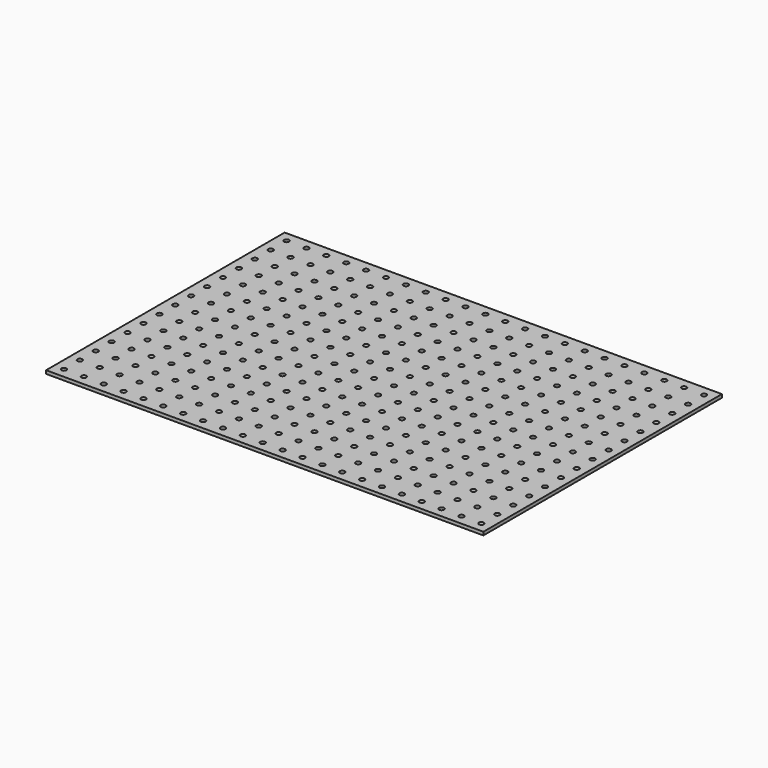
from build123d import *

# Parameters (mm, degrees)
F0_W     = 558.8
F0_H     = 381
F0_R     = 3.175
F1_DEPTH = 4.191


with BuildPart() as f1:
    # F0 (on Top) → F1 (new body)
    with BuildSketch(Plane.XY):
        Rectangle(F0_W, F0_H)
        with Locations((-266.7, -177.8)):
            Circle(F0_R, mode=Mode.SUBTRACT)
        with Locations((-241.3, -177.8)):
            Circle(F0_R, mode=Mode.SUBTRACT)
        with Locations((-215.9, -177.8)):
            Circle(F0_R, mode=Mode.SUBTRACT)
        with Locations((-266.7, -152.4)):
            Circle(F0_R, mode=Mode.SUBTRACT)
        with Locations((-241.3, -152.4)):
            Circle(F0_R, mode=Mode.SUBTRACT)
        with Locations((-215.9, -152.4)):
            Circle(F0_R, mode=Mode.SUBTRACT)
        with Locations((-190.5, -177.8)):
            Circle(F0_R, mode=Mode.SUBTRACT)
        with Locations((-165.1, -177.8)):
            Circle(F0_R, mode=Mode.SUBTRACT)
        with Locations((-190.5, -152.4)):
            Circle(F0_R, mode=Mode.SUBTRACT)
        with Locations((-165.1, -152.4)):
            Circle(F0_R, mode=Mode.SUBTRACT)
        with Locations((-266.7, -127)):
            Circle(F0_R, mode=Mode.SUBTRACT)
        with Locations((-241.3, -127)):
            Circle(F0_R, mode=Mode.SUBTRACT)
        with Locations((-215.9, -127)):
            Circle(F0_R, mode=Mode.SUBTRACT)
        with Locations((-266.7, -101.6)):
            Circle(F0_R, mode=Mode.SUBTRACT)
        with Locations((-241.3, -101.6)):
            Circle(F0_R, mode=Mode.SUBTRACT)
        with Locations((-215.9, -101.6)):
            Circle(F0_R, mode=Mode.SUBTRACT)
        with Locations((-190.5, -127)):
            Circle(F0_R, mode=Mode.SUBTRACT)
        with Locations((-165.1, -127)):
            Circle(F0_R, mode=Mode.SUBTRACT)
        with Locations((-190.5, -101.6)):
            Circle(F0_R, mode=Mode.SUBTRACT)
        with Locations((-165.1, -101.6)):
            Circle(F0_R, mode=Mode.SUBTRACT)
        with Locations((-139.7, -177.8)):
            Circle(F0_R, mode=Mode.SUBTRACT)
        with Locations((-114.3, -177.8)):
            Circle(F0_R, mode=Mode.SUBTRACT)
        with Locations((-88.9, -177.8)):
            Circle(F0_R, mode=Mode.SUBTRACT)
        with Locations((-139.7, -152.4)):
            Circle(F0_R, mode=Mode.SUBTRACT)
        with Locations((-114.3, -152.4)):
            Circle(F0_R, mode=Mode.SUBTRACT)
        with Locations((-88.9, -152.4)):
            Circle(F0_R, mode=Mode.SUBTRACT)
        with Locations((-63.5, -177.8)):
            Circle(F0_R, mode=Mode.SUBTRACT)
        with Locations((-38.1, -177.8)):
            Circle(F0_R, mode=Mode.SUBTRACT)
        with Locations((-12.7, -177.8)):
            Circle(F0_R, mode=Mode.SUBTRACT)
        with Locations((-63.5, -152.4)):
            Circle(F0_R, mode=Mode.SUBTRACT)
        with Locations((-38.1, -152.4)):
            Circle(F0_R, mode=Mode.SUBTRACT)
        with Locations((-12.7, -152.4)):
            Circle(F0_R, mode=Mode.SUBTRACT)
        with Locations((-139.7, -127)):
            Circle(F0_R, mode=Mode.SUBTRACT)
        with Locations((-114.3, -127)):
            Circle(F0_R, mode=Mode.SUBTRACT)
        with Locations((-88.9, -127)):
            Circle(F0_R, mode=Mode.SUBTRACT)
        with Locations((-139.7, -101.6)):
            Circle(F0_R, mode=Mode.SUBTRACT)
        with Locations((-114.3, -101.6)):
            Circle(F0_R, mode=Mode.SUBTRACT)
        with Locations((-88.9, -101.6)):
            Circle(F0_R, mode=Mode.SUBTRACT)
        with Locations((-63.5, -127)):
            Circle(F0_R, mode=Mode.SUBTRACT)
        with Locations((-38.1, -127)):
            Circle(F0_R, mode=Mode.SUBTRACT)
        with Locations((-12.7, -127)):
            Circle(F0_R, mode=Mode.SUBTRACT)
        with Locations((-63.5, -101.6)):
            Circle(F0_R, mode=Mode.SUBTRACT)
        with Locations((-38.1, -101.6)):
            Circle(F0_R, mode=Mode.SUBTRACT)
        with Locations((-12.7, -101.6)):
            Circle(F0_R, mode=Mode.SUBTRACT)
        with Locations((-266.7, -76.2)):
            Circle(F0_R, mode=Mode.SUBTRACT)
        with Locations((-241.3, -76.2)):
            Circle(F0_R, mode=Mode.SUBTRACT)
        with Locations((-215.9, -76.2)):
            Circle(F0_R, mode=Mode.SUBTRACT)
        with Locations((-266.7, -50.8)):
            Circle(F0_R, mode=Mode.SUBTRACT)
        with Locations((-241.3, -50.8)):
            Circle(F0_R, mode=Mode.SUBTRACT)
        with Locations((-215.9, -50.8)):
            Circle(F0_R, mode=Mode.SUBTRACT)
        with Locations((-190.5, -76.2)):
            Circle(F0_R, mode=Mode.SUBTRACT)
        with Locations((-165.1, -76.2)):
            Circle(F0_R, mode=Mode.SUBTRACT)
        with Locations((-190.5, -50.8)):
            Circle(F0_R, mode=Mode.SUBTRACT)
        with Locations((-165.1, -50.8)):
            Circle(F0_R, mode=Mode.SUBTRACT)
        with Locations((-266.7, -25.4)):
            Circle(F0_R, mode=Mode.SUBTRACT)
        with Locations((-241.3, -25.4)):
            Circle(F0_R, mode=Mode.SUBTRACT)
        with Locations((-215.9, -25.4)):
            Circle(F0_R, mode=Mode.SUBTRACT)
        with Locations((-190.5, -25.4)):
            Circle(F0_R, mode=Mode.SUBTRACT)
        with Locations((-165.1, -25.4)):
            Circle(F0_R, mode=Mode.SUBTRACT)
        with Locations((-139.7, -76.2)):
            Circle(F0_R, mode=Mode.SUBTRACT)
        with Locations((-114.3, -76.2)):
            Circle(F0_R, mode=Mode.SUBTRACT)
        with Locations((-88.9, -76.2)):
            Circle(F0_R, mode=Mode.SUBTRACT)
        with Locations((-139.7, -50.8)):
            Circle(F0_R, mode=Mode.SUBTRACT)
        with Locations((-114.3, -50.8)):
            Circle(F0_R, mode=Mode.SUBTRACT)
        with Locations((-88.9, -50.8)):
            Circle(F0_R, mode=Mode.SUBTRACT)
        with Locations((-63.5, -76.2)):
            Circle(F0_R, mode=Mode.SUBTRACT)
        with Locations((-38.1, -76.2)):
            Circle(F0_R, mode=Mode.SUBTRACT)
        with Locations((-12.7, -76.2)):
            Circle(F0_R, mode=Mode.SUBTRACT)
        with Locations((-63.5, -50.8)):
            Circle(F0_R, mode=Mode.SUBTRACT)
        with Locations((-38.1, -50.8)):
            Circle(F0_R, mode=Mode.SUBTRACT)
        with Locations((-12.7, -50.8)):
            Circle(F0_R, mode=Mode.SUBTRACT)
        with Locations((-139.7, -25.4)):
            Circle(F0_R, mode=Mode.SUBTRACT)
        with Locations((-114.3, -25.4)):
            Circle(F0_R, mode=Mode.SUBTRACT)
        with Locations((-88.9, -25.4)):
            Circle(F0_R, mode=Mode.SUBTRACT)
        with Locations((-63.5, -25.4)):
            Circle(F0_R, mode=Mode.SUBTRACT)
        with Locations((-38.1, -25.4)):
            Circle(F0_R, mode=Mode.SUBTRACT)
        with Locations((-12.7, -25.4)):
            Circle(F0_R, mode=Mode.SUBTRACT)
        with Locations((12.7, -177.8)):
            Circle(F0_R, mode=Mode.SUBTRACT)
        with Locations((38.1, -177.8)):
            Circle(F0_R, mode=Mode.SUBTRACT)
        with Locations((63.5, -177.8)):
            Circle(F0_R, mode=Mode.SUBTRACT)
        with Locations((12.7, -152.4)):
            Circle(F0_R, mode=Mode.SUBTRACT)
        with Locations((38.1, -152.4)):
            Circle(F0_R, mode=Mode.SUBTRACT)
        with Locations((63.5, -152.4)):
            Circle(F0_R, mode=Mode.SUBTRACT)
        with Locations((88.9, -177.8)):
            Circle(F0_R, mode=Mode.SUBTRACT)
        with Locations((114.3, -177.8)):
            Circle(F0_R, mode=Mode.SUBTRACT)
        with Locations((88.9, -152.4)):
            Circle(F0_R, mode=Mode.SUBTRACT)
        with Locations((114.3, -152.4)):
            Circle(F0_R, mode=Mode.SUBTRACT)
        with Locations((12.7, -127)):
            Circle(F0_R, mode=Mode.SUBTRACT)
        with Locations((38.1, -127)):
            Circle(F0_R, mode=Mode.SUBTRACT)
        with Locations((63.5, -127)):
            Circle(F0_R, mode=Mode.SUBTRACT)
        with Locations((12.7, -101.6)):
            Circle(F0_R, mode=Mode.SUBTRACT)
        with Locations((38.1, -101.6)):
            Circle(F0_R, mode=Mode.SUBTRACT)
        with Locations((63.5, -101.6)):
            Circle(F0_R, mode=Mode.SUBTRACT)
        with Locations((88.9, -127)):
            Circle(F0_R, mode=Mode.SUBTRACT)
        with Locations((114.3, -127)):
            Circle(F0_R, mode=Mode.SUBTRACT)
        with Locations((88.9, -101.6)):
            Circle(F0_R, mode=Mode.SUBTRACT)
        with Locations((114.3, -101.6)):
            Circle(F0_R, mode=Mode.SUBTRACT)
        with Locations((139.7, -177.8)):
            Circle(F0_R, mode=Mode.SUBTRACT)
        with Locations((165.1, -177.8)):
            Circle(F0_R, mode=Mode.SUBTRACT)
        with Locations((190.5, -177.8)):
            Circle(F0_R, mode=Mode.SUBTRACT)
        with Locations((139.7, -152.4)):
            Circle(F0_R, mode=Mode.SUBTRACT)
        with Locations((165.1, -152.4)):
            Circle(F0_R, mode=Mode.SUBTRACT)
        with Locations((190.5, -152.4)):
            Circle(F0_R, mode=Mode.SUBTRACT)
        with Locations((215.9, -177.8)):
            Circle(F0_R, mode=Mode.SUBTRACT)
        with Locations((241.3, -177.8)):
            Circle(F0_R, mode=Mode.SUBTRACT)
        with Locations((266.7, -177.8)):
            Circle(F0_R, mode=Mode.SUBTRACT)
        with Locations((215.9, -152.4)):
            Circle(F0_R, mode=Mode.SUBTRACT)
        with Locations((241.3, -152.4)):
            Circle(F0_R, mode=Mode.SUBTRACT)
        with Locations((266.7, -152.4)):
            Circle(F0_R, mode=Mode.SUBTRACT)
        with Locations((139.7, -127)):
            Circle(F0_R, mode=Mode.SUBTRACT)
        with Locations((165.1, -127)):
            Circle(F0_R, mode=Mode.SUBTRACT)
        with Locations((190.5, -127)):
            Circle(F0_R, mode=Mode.SUBTRACT)
        with Locations((139.7, -101.6)):
            Circle(F0_R, mode=Mode.SUBTRACT)
        with Locations((165.1, -101.6)):
            Circle(F0_R, mode=Mode.SUBTRACT)
        with Locations((190.5, -101.6)):
            Circle(F0_R, mode=Mode.SUBTRACT)
        with Locations((215.9, -127)):
            Circle(F0_R, mode=Mode.SUBTRACT)
        with Locations((241.3, -127)):
            Circle(F0_R, mode=Mode.SUBTRACT)
        with Locations((266.7, -127)):
            Circle(F0_R, mode=Mode.SUBTRACT)
        with Locations((215.9, -101.6)):
            Circle(F0_R, mode=Mode.SUBTRACT)
        with Locations((241.3, -101.6)):
            Circle(F0_R, mode=Mode.SUBTRACT)
        with Locations((266.7, -101.6)):
            Circle(F0_R, mode=Mode.SUBTRACT)
        with Locations((12.7, -76.2)):
            Circle(F0_R, mode=Mode.SUBTRACT)
        with Locations((38.1, -76.2)):
            Circle(F0_R, mode=Mode.SUBTRACT)
        with Locations((63.5, -76.2)):
            Circle(F0_R, mode=Mode.SUBTRACT)
        with Locations((12.7, -50.8)):
            Circle(F0_R, mode=Mode.SUBTRACT)
        with Locations((38.1, -50.8)):
            Circle(F0_R, mode=Mode.SUBTRACT)
        with Locations((63.5, -50.8)):
            Circle(F0_R, mode=Mode.SUBTRACT)
        with Locations((88.9, -76.2)):
            Circle(F0_R, mode=Mode.SUBTRACT)
        with Locations((114.3, -76.2)):
            Circle(F0_R, mode=Mode.SUBTRACT)
        with Locations((88.9, -50.8)):
            Circle(F0_R, mode=Mode.SUBTRACT)
        with Locations((114.3, -50.8)):
            Circle(F0_R, mode=Mode.SUBTRACT)
        with Locations((12.7, -25.4)):
            Circle(F0_R, mode=Mode.SUBTRACT)
        with Locations((38.1, -25.4)):
            Circle(F0_R, mode=Mode.SUBTRACT)
        with Locations((63.5, -25.4)):
            Circle(F0_R, mode=Mode.SUBTRACT)
        with Locations((88.9, -25.4)):
            Circle(F0_R, mode=Mode.SUBTRACT)
        with Locations((114.3, -25.4)):
            Circle(F0_R, mode=Mode.SUBTRACT)
        with Locations((139.7, -76.2)):
            Circle(F0_R, mode=Mode.SUBTRACT)
        with Locations((165.1, -76.2)):
            Circle(F0_R, mode=Mode.SUBTRACT)
        with Locations((190.5, -76.2)):
            Circle(F0_R, mode=Mode.SUBTRACT)
        with Locations((139.7, -50.8)):
            Circle(F0_R, mode=Mode.SUBTRACT)
        with Locations((165.1, -50.8)):
            Circle(F0_R, mode=Mode.SUBTRACT)
        with Locations((190.5, -50.8)):
            Circle(F0_R, mode=Mode.SUBTRACT)
        with Locations((215.9, -76.2)):
            Circle(F0_R, mode=Mode.SUBTRACT)
        with Locations((241.3, -76.2)):
            Circle(F0_R, mode=Mode.SUBTRACT)
        with Locations((266.7, -76.2)):
            Circle(F0_R, mode=Mode.SUBTRACT)
        with Locations((215.9, -50.8)):
            Circle(F0_R, mode=Mode.SUBTRACT)
        with Locations((241.3, -50.8)):
            Circle(F0_R, mode=Mode.SUBTRACT)
        with Locations((266.7, -50.8)):
            Circle(F0_R, mode=Mode.SUBTRACT)
        with Locations((139.7, -25.4)):
            Circle(F0_R, mode=Mode.SUBTRACT)
        with Locations((165.1, -25.4)):
            Circle(F0_R, mode=Mode.SUBTRACT)
        with Locations((190.5, -25.4)):
            Circle(F0_R, mode=Mode.SUBTRACT)
        with Locations((215.9, -25.4)):
            Circle(F0_R, mode=Mode.SUBTRACT)
        with Locations((241.3, -25.4)):
            Circle(F0_R, mode=Mode.SUBTRACT)
        with Locations((266.7, -25.4)):
            Circle(F0_R, mode=Mode.SUBTRACT)
        with Locations((-266.7, 0)):
            Circle(F0_R, mode=Mode.SUBTRACT)
        with Locations((-241.3, 0)):
            Circle(F0_R, mode=Mode.SUBTRACT)
        with Locations((-215.9, 0)):
            Circle(F0_R, mode=Mode.SUBTRACT)
        with Locations((-266.7, 25.4)):
            Circle(F0_R, mode=Mode.SUBTRACT)
        with Locations((-241.3, 25.4)):
            Circle(F0_R, mode=Mode.SUBTRACT)
        with Locations((-215.9, 25.4)):
            Circle(F0_R, mode=Mode.SUBTRACT)
        with Locations((-190.5, 0)):
            Circle(F0_R, mode=Mode.SUBTRACT)
        with Locations((-165.1, 0)):
            Circle(F0_R, mode=Mode.SUBTRACT)
        with Locations((-190.5, 25.4)):
            Circle(F0_R, mode=Mode.SUBTRACT)
        with Locations((-165.1, 25.4)):
            Circle(F0_R, mode=Mode.SUBTRACT)
        with Locations((-266.7, 50.8)):
            Circle(F0_R, mode=Mode.SUBTRACT)
        with Locations((-241.3, 50.8)):
            Circle(F0_R, mode=Mode.SUBTRACT)
        with Locations((-215.9, 50.8)):
            Circle(F0_R, mode=Mode.SUBTRACT)
        with Locations((-266.7, 76.2)):
            Circle(F0_R, mode=Mode.SUBTRACT)
        with Locations((-241.3, 76.2)):
            Circle(F0_R, mode=Mode.SUBTRACT)
        with Locations((-215.9, 76.2)):
            Circle(F0_R, mode=Mode.SUBTRACT)
        with Locations((-190.5, 50.8)):
            Circle(F0_R, mode=Mode.SUBTRACT)
        with Locations((-165.1, 50.8)):
            Circle(F0_R, mode=Mode.SUBTRACT)
        with Locations((-190.5, 76.2)):
            Circle(F0_R, mode=Mode.SUBTRACT)
        with Locations((-165.1, 76.2)):
            Circle(F0_R, mode=Mode.SUBTRACT)
        with Locations((-139.7, 0)):
            Circle(F0_R, mode=Mode.SUBTRACT)
        with Locations((-114.3, 0)):
            Circle(F0_R, mode=Mode.SUBTRACT)
        with Locations((-88.9, 0)):
            Circle(F0_R, mode=Mode.SUBTRACT)
        with Locations((-139.7, 25.4)):
            Circle(F0_R, mode=Mode.SUBTRACT)
        with Locations((-114.3, 25.4)):
            Circle(F0_R, mode=Mode.SUBTRACT)
        with Locations((-88.9, 25.4)):
            Circle(F0_R, mode=Mode.SUBTRACT)
        with Locations((-63.5, 0)):
            Circle(F0_R, mode=Mode.SUBTRACT)
        with Locations((-38.1, 0)):
            Circle(F0_R, mode=Mode.SUBTRACT)
        with Locations((-12.7, 0)):
            Circle(F0_R, mode=Mode.SUBTRACT)
        with Locations((-63.5, 25.4)):
            Circle(F0_R, mode=Mode.SUBTRACT)
        with Locations((-38.1, 25.4)):
            Circle(F0_R, mode=Mode.SUBTRACT)
        with Locations((-12.7, 25.4)):
            Circle(F0_R, mode=Mode.SUBTRACT)
        with Locations((-139.7, 50.8)):
            Circle(F0_R, mode=Mode.SUBTRACT)
        with Locations((-114.3, 50.8)):
            Circle(F0_R, mode=Mode.SUBTRACT)
        with Locations((-88.9, 50.8)):
            Circle(F0_R, mode=Mode.SUBTRACT)
        with Locations((-139.7, 76.2)):
            Circle(F0_R, mode=Mode.SUBTRACT)
        with Locations((-114.3, 76.2)):
            Circle(F0_R, mode=Mode.SUBTRACT)
        with Locations((-88.9, 76.2)):
            Circle(F0_R, mode=Mode.SUBTRACT)
        with Locations((-63.5, 50.8)):
            Circle(F0_R, mode=Mode.SUBTRACT)
        with Locations((-38.1, 50.8)):
            Circle(F0_R, mode=Mode.SUBTRACT)
        with Locations((-12.7, 50.8)):
            Circle(F0_R, mode=Mode.SUBTRACT)
        with Locations((-63.5, 76.2)):
            Circle(F0_R, mode=Mode.SUBTRACT)
        with Locations((-38.1, 76.2)):
            Circle(F0_R, mode=Mode.SUBTRACT)
        with Locations((-12.7, 76.2)):
            Circle(F0_R, mode=Mode.SUBTRACT)
        with Locations((-266.7, 101.6)):
            Circle(F0_R, mode=Mode.SUBTRACT)
        with Locations((-241.3, 101.6)):
            Circle(F0_R, mode=Mode.SUBTRACT)
        with Locations((-215.9, 101.6)):
            Circle(F0_R, mode=Mode.SUBTRACT)
        with Locations((-266.7, 127)):
            Circle(F0_R, mode=Mode.SUBTRACT)
        with Locations((-241.3, 127)):
            Circle(F0_R, mode=Mode.SUBTRACT)
        with Locations((-215.9, 127)):
            Circle(F0_R, mode=Mode.SUBTRACT)
        with Locations((-190.5, 101.6)):
            Circle(F0_R, mode=Mode.SUBTRACT)
        with Locations((-165.1, 101.6)):
            Circle(F0_R, mode=Mode.SUBTRACT)
        with Locations((-190.5, 127)):
            Circle(F0_R, mode=Mode.SUBTRACT)
        with Locations((-165.1, 127)):
            Circle(F0_R, mode=Mode.SUBTRACT)
        with Locations((-266.7, 152.4)):
            Circle(F0_R, mode=Mode.SUBTRACT)
        with Locations((-241.3, 152.4)):
            Circle(F0_R, mode=Mode.SUBTRACT)
        with Locations((-215.9, 152.4)):
            Circle(F0_R, mode=Mode.SUBTRACT)
        with Locations((-266.7, 177.8)):
            Circle(F0_R, mode=Mode.SUBTRACT)
        with Locations((-241.3, 177.8)):
            Circle(F0_R, mode=Mode.SUBTRACT)
        with Locations((-215.9, 177.8)):
            Circle(F0_R, mode=Mode.SUBTRACT)
        with Locations((-190.5, 152.4)):
            Circle(F0_R, mode=Mode.SUBTRACT)
        with Locations((-165.1, 152.4)):
            Circle(F0_R, mode=Mode.SUBTRACT)
        with Locations((-190.5, 177.8)):
            Circle(F0_R, mode=Mode.SUBTRACT)
        with Locations((-165.1, 177.8)):
            Circle(F0_R, mode=Mode.SUBTRACT)
        with Locations((-139.7, 101.6)):
            Circle(F0_R, mode=Mode.SUBTRACT)
        with Locations((-114.3, 101.6)):
            Circle(F0_R, mode=Mode.SUBTRACT)
        with Locations((-88.9, 101.6)):
            Circle(F0_R, mode=Mode.SUBTRACT)
        with Locations((-139.7, 127)):
            Circle(F0_R, mode=Mode.SUBTRACT)
        with Locations((-114.3, 127)):
            Circle(F0_R, mode=Mode.SUBTRACT)
        with Locations((-88.9, 127)):
            Circle(F0_R, mode=Mode.SUBTRACT)
        with Locations((-63.5, 101.6)):
            Circle(F0_R, mode=Mode.SUBTRACT)
        with Locations((-38.1, 101.6)):
            Circle(F0_R, mode=Mode.SUBTRACT)
        with Locations((-12.7, 101.6)):
            Circle(F0_R, mode=Mode.SUBTRACT)
        with Locations((-63.5, 127)):
            Circle(F0_R, mode=Mode.SUBTRACT)
        with Locations((-38.1, 127)):
            Circle(F0_R, mode=Mode.SUBTRACT)
        with Locations((-12.7, 127)):
            Circle(F0_R, mode=Mode.SUBTRACT)
        with Locations((-139.7, 152.4)):
            Circle(F0_R, mode=Mode.SUBTRACT)
        with Locations((-114.3, 152.4)):
            Circle(F0_R, mode=Mode.SUBTRACT)
        with Locations((-88.9, 152.4)):
            Circle(F0_R, mode=Mode.SUBTRACT)
        with Locations((-139.7, 177.8)):
            Circle(F0_R, mode=Mode.SUBTRACT)
        with Locations((-114.3, 177.8)):
            Circle(F0_R, mode=Mode.SUBTRACT)
        with Locations((-88.9, 177.8)):
            Circle(F0_R, mode=Mode.SUBTRACT)
        with Locations((-63.5, 152.4)):
            Circle(F0_R, mode=Mode.SUBTRACT)
        with Locations((-38.1, 152.4)):
            Circle(F0_R, mode=Mode.SUBTRACT)
        with Locations((-12.7, 152.4)):
            Circle(F0_R, mode=Mode.SUBTRACT)
        with Locations((-63.5, 177.8)):
            Circle(F0_R, mode=Mode.SUBTRACT)
        with Locations((-38.1, 177.8)):
            Circle(F0_R, mode=Mode.SUBTRACT)
        with Locations((-12.7, 177.8)):
            Circle(F0_R, mode=Mode.SUBTRACT)
        with Locations((12.7, 0)):
            Circle(F0_R, mode=Mode.SUBTRACT)
        with Locations((38.1, 0)):
            Circle(F0_R, mode=Mode.SUBTRACT)
        with Locations((63.5, 0)):
            Circle(F0_R, mode=Mode.SUBTRACT)
        with Locations((12.7, 25.4)):
            Circle(F0_R, mode=Mode.SUBTRACT)
        with Locations((38.1, 25.4)):
            Circle(F0_R, mode=Mode.SUBTRACT)
        with Locations((63.5, 25.4)):
            Circle(F0_R, mode=Mode.SUBTRACT)
        with Locations((88.9, 0)):
            Circle(F0_R, mode=Mode.SUBTRACT)
        with Locations((114.3, 0)):
            Circle(F0_R, mode=Mode.SUBTRACT)
        with Locations((88.9, 25.4)):
            Circle(F0_R, mode=Mode.SUBTRACT)
        with Locations((114.3, 25.4)):
            Circle(F0_R, mode=Mode.SUBTRACT)
        with Locations((12.7, 50.8)):
            Circle(F0_R, mode=Mode.SUBTRACT)
        with Locations((38.1, 50.8)):
            Circle(F0_R, mode=Mode.SUBTRACT)
        with Locations((63.5, 50.8)):
            Circle(F0_R, mode=Mode.SUBTRACT)
        with Locations((12.7, 76.2)):
            Circle(F0_R, mode=Mode.SUBTRACT)
        with Locations((38.1, 76.2)):
            Circle(F0_R, mode=Mode.SUBTRACT)
        with Locations((63.5, 76.2)):
            Circle(F0_R, mode=Mode.SUBTRACT)
        with Locations((88.9, 50.8)):
            Circle(F0_R, mode=Mode.SUBTRACT)
        with Locations((114.3, 50.8)):
            Circle(F0_R, mode=Mode.SUBTRACT)
        with Locations((88.9, 76.2)):
            Circle(F0_R, mode=Mode.SUBTRACT)
        with Locations((114.3, 76.2)):
            Circle(F0_R, mode=Mode.SUBTRACT)
        with Locations((139.7, 0)):
            Circle(F0_R, mode=Mode.SUBTRACT)
        with Locations((165.1, 0)):
            Circle(F0_R, mode=Mode.SUBTRACT)
        with Locations((190.5, 0)):
            Circle(F0_R, mode=Mode.SUBTRACT)
        with Locations((139.7, 25.4)):
            Circle(F0_R, mode=Mode.SUBTRACT)
        with Locations((165.1, 25.4)):
            Circle(F0_R, mode=Mode.SUBTRACT)
        with Locations((190.5, 25.4)):
            Circle(F0_R, mode=Mode.SUBTRACT)
        with Locations((215.9, 0)):
            Circle(F0_R, mode=Mode.SUBTRACT)
        with Locations((241.3, 0)):
            Circle(F0_R, mode=Mode.SUBTRACT)
        with Locations((266.7, 0)):
            Circle(F0_R, mode=Mode.SUBTRACT)
        with Locations((215.9, 25.4)):
            Circle(F0_R, mode=Mode.SUBTRACT)
        with Locations((241.3, 25.4)):
            Circle(F0_R, mode=Mode.SUBTRACT)
        with Locations((266.7, 25.4)):
            Circle(F0_R, mode=Mode.SUBTRACT)
        with Locations((139.7, 50.8)):
            Circle(F0_R, mode=Mode.SUBTRACT)
        with Locations((165.1, 50.8)):
            Circle(F0_R, mode=Mode.SUBTRACT)
        with Locations((190.5, 50.8)):
            Circle(F0_R, mode=Mode.SUBTRACT)
        with Locations((139.7, 76.2)):
            Circle(F0_R, mode=Mode.SUBTRACT)
        with Locations((165.1, 76.2)):
            Circle(F0_R, mode=Mode.SUBTRACT)
        with Locations((190.5, 76.2)):
            Circle(F0_R, mode=Mode.SUBTRACT)
        with Locations((215.9, 50.8)):
            Circle(F0_R, mode=Mode.SUBTRACT)
        with Locations((241.3, 50.8)):
            Circle(F0_R, mode=Mode.SUBTRACT)
        with Locations((266.7, 50.8)):
            Circle(F0_R, mode=Mode.SUBTRACT)
        with Locations((215.9, 76.2)):
            Circle(F0_R, mode=Mode.SUBTRACT)
        with Locations((241.3, 76.2)):
            Circle(F0_R, mode=Mode.SUBTRACT)
        with Locations((266.7, 76.2)):
            Circle(F0_R, mode=Mode.SUBTRACT)
        with Locations((12.7, 101.6)):
            Circle(F0_R, mode=Mode.SUBTRACT)
        with Locations((38.1, 101.6)):
            Circle(F0_R, mode=Mode.SUBTRACT)
        with Locations((63.5, 101.6)):
            Circle(F0_R, mode=Mode.SUBTRACT)
        with Locations((12.7, 127)):
            Circle(F0_R, mode=Mode.SUBTRACT)
        with Locations((38.1, 127)):
            Circle(F0_R, mode=Mode.SUBTRACT)
        with Locations((63.5, 127)):
            Circle(F0_R, mode=Mode.SUBTRACT)
        with Locations((88.9, 101.6)):
            Circle(F0_R, mode=Mode.SUBTRACT)
        with Locations((114.3, 101.6)):
            Circle(F0_R, mode=Mode.SUBTRACT)
        with Locations((88.9, 127)):
            Circle(F0_R, mode=Mode.SUBTRACT)
        with Locations((114.3, 127)):
            Circle(F0_R, mode=Mode.SUBTRACT)
        with Locations((12.7, 152.4)):
            Circle(F0_R, mode=Mode.SUBTRACT)
        with Locations((38.1, 152.4)):
            Circle(F0_R, mode=Mode.SUBTRACT)
        with Locations((63.5, 152.4)):
            Circle(F0_R, mode=Mode.SUBTRACT)
        with Locations((12.7, 177.8)):
            Circle(F0_R, mode=Mode.SUBTRACT)
        with Locations((38.1, 177.8)):
            Circle(F0_R, mode=Mode.SUBTRACT)
        with Locations((63.5, 177.8)):
            Circle(F0_R, mode=Mode.SUBTRACT)
        with Locations((88.9, 152.4)):
            Circle(F0_R, mode=Mode.SUBTRACT)
        with Locations((114.3, 152.4)):
            Circle(F0_R, mode=Mode.SUBTRACT)
        with Locations((88.9, 177.8)):
            Circle(F0_R, mode=Mode.SUBTRACT)
        with Locations((114.3, 177.8)):
            Circle(F0_R, mode=Mode.SUBTRACT)
        with Locations((139.7, 101.6)):
            Circle(F0_R, mode=Mode.SUBTRACT)
        with Locations((165.1, 101.6)):
            Circle(F0_R, mode=Mode.SUBTRACT)
        with Locations((190.5, 101.6)):
            Circle(F0_R, mode=Mode.SUBTRACT)
        with Locations((139.7, 127)):
            Circle(F0_R, mode=Mode.SUBTRACT)
        with Locations((165.1, 127)):
            Circle(F0_R, mode=Mode.SUBTRACT)
        with Locations((190.5, 127)):
            Circle(F0_R, mode=Mode.SUBTRACT)
        with Locations((215.9, 101.6)):
            Circle(F0_R, mode=Mode.SUBTRACT)
        with Locations((241.3, 101.6)):
            Circle(F0_R, mode=Mode.SUBTRACT)
        with Locations((266.7, 101.6)):
            Circle(F0_R, mode=Mode.SUBTRACT)
        with Locations((215.9, 127)):
            Circle(F0_R, mode=Mode.SUBTRACT)
        with Locations((241.3, 127)):
            Circle(F0_R, mode=Mode.SUBTRACT)
        with Locations((266.7, 127)):
            Circle(F0_R, mode=Mode.SUBTRACT)
        with Locations((139.7, 152.4)):
            Circle(F0_R, mode=Mode.SUBTRACT)
        with Locations((165.1, 152.4)):
            Circle(F0_R, mode=Mode.SUBTRACT)
        with Locations((190.5, 152.4)):
            Circle(F0_R, mode=Mode.SUBTRACT)
        with Locations((139.7, 177.8)):
            Circle(F0_R, mode=Mode.SUBTRACT)
        with Locations((165.1, 177.8)):
            Circle(F0_R, mode=Mode.SUBTRACT)
        with Locations((190.5, 177.8)):
            Circle(F0_R, mode=Mode.SUBTRACT)
        with Locations((215.9, 152.4)):
            Circle(F0_R, mode=Mode.SUBTRACT)
        with Locations((241.3, 152.4)):
            Circle(F0_R, mode=Mode.SUBTRACT)
        with Locations((266.7, 152.4)):
            Circle(F0_R, mode=Mode.SUBTRACT)
        with Locations((215.9, 177.8)):
            Circle(F0_R, mode=Mode.SUBTRACT)
        with Locations((241.3, 177.8)):
            Circle(F0_R, mode=Mode.SUBTRACT)
        with Locations((266.7, 177.8)):
            Circle(F0_R, mode=Mode.SUBTRACT)
    extrude(amount=F1_DEPTH)


solid = f1.part
